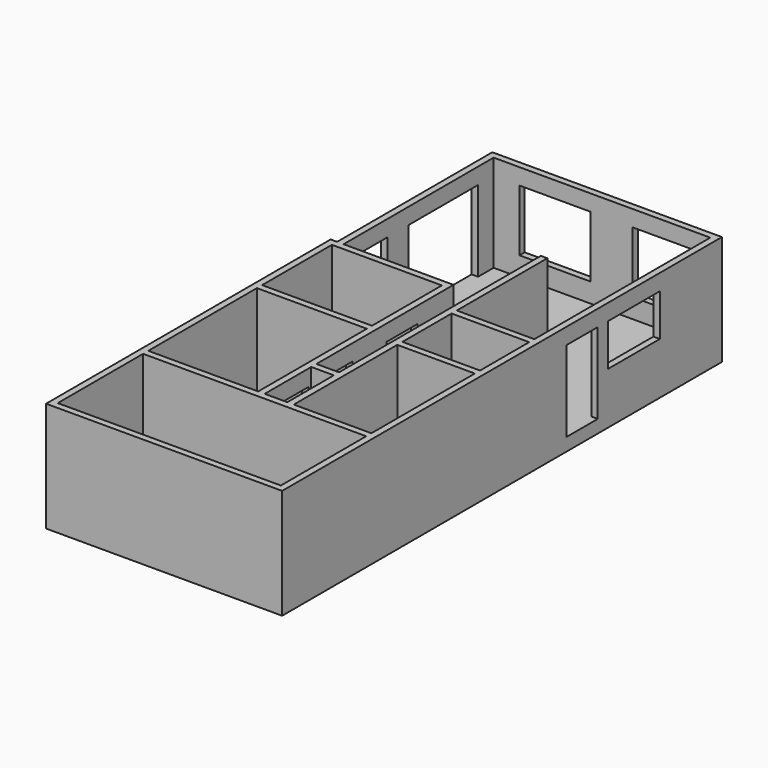
from build123d import *

# Parameters (mm, degrees)
F2_W      = 2
F2_H      = 110
F3_DEPTH  = 4
F4_W      = 2
F4_H      = 33
F4_H_2    = 40
F4_H_3    = 27
F4_H_4    = 19
F4_H_5    = 35
F4_W_2    = 7
F4_H_6    = 2
F5_DEPTH  = 30
F6_W      = 12
F6_H      = 25
F6_W_2    = 27
F7_DEPTH  = 2
F8_W      = 12
F8_H      = 25
F8_W_2    = 20
F8_H_2    = 13
F9_DEPTH  = 2
F10_W     = 22
F10_H     = 19
F11_DEPTH = 2
F12_W     = 12
F12_H     = 25
F12_W_2   = 10.6349699199
F13_DEPTH = 2


with BuildPart() as f3:
    # F2 (on Top) → F3 (new body)
    with BuildSketch(Plane.XY):
        Polygon((57.8188975325, 167.2736013268), (-13.1811024675, 167.2736013268), (-13.1811024675, 107.2736013268), (-13.1811024675, -2.7263986732), (57.8188975325, -2.7263986732), align=None)
        with Locations((-14.1811024675, 52.2736013268)):
            Rectangle(F2_W, F2_H)
    extrude(amount=F3_DEPTH)

    # F4 (on face) → F5 (join)
    with BuildSketch(Plane.XY.offset(4)):
        with Locations((56.8188975325, 15.7736013268)):
            Rectangle(F4_W, F4_H)
        with Locations((56.8188975325, 54.2736013268)):
            Rectangle(F4_W, F4_H_2)
        Polygon((-13.1811024675, 167.2736013268), (-13.1811024675, 107.2736013268), (-11.1811024675, 107.2736013268), (-11.1811024675, 165.2736013268), (-11.1811024675, 167.2736013268), align=None)
        Polygon((-11.1811024675, 167.2736013268), (-11.1811024675, 165.2736013268), (55.8188975325, 165.2736013268), (57.8188975325, 165.2736013268), (57.8188975325, 167.2736013268), align=None)
        Polygon((-15.1811024675, -0.7263986732), (-15.1811024675, -2.7263986732), (57.8188975325, -2.7263986732), (57.8188975325, -0.7263986732), (55.8188975325, -0.7263986732), (27.8188975325, -0.7263986732), (25.8188975325, -0.7263986732), (-13.1811024675, -0.7263986732), align=None)
        Polygon((-11.1811024675, 107.2736013268), (-13.1811024675, 107.2736013268), (-13.1811024675, 105.2736013268), (20.8188975325, 105.2736013268), (22.8188975325, 105.2736013268), (22.8188975325, 107.2736013268), align=None)
        Polygon((55.8188975325, 76.2736013268), (57.8188975325, 76.2736013268), (57.8188975325, 165.2736013268), (55.8188975325, 165.2736013268), (55.8188975325, 97.2736013268), (55.8188975325, 95.2736013268), align=None)
        Polygon((-15.1811024675, 107.2736013268), (-15.1811024675, -0.7263986732), (-13.1811024675, -0.7263986732), (-13.1811024675, 32.2736013268), (-13.1811024675, 34.2736013268), (-13.1811024675, 76.2736013268), (-13.1811024675, 78.2736013268), (-13.1811024675, 105.2736013268), (-13.1811024675, 107.2736013268), align=None)
        Polygon((55.8188975325, 74.2736013268), (57.8188975325, 74.2736013268), (57.8188975325, 76.2736013268), (55.8188975325, 76.2736013268), (31.8188975325, 76.2736013268), (29.8188975325, 76.2736013268), (29.8188975325, 74.2736013268), (31.8188975325, 74.2736013268), align=None)
        Polygon((55.8188975325, 32.2736013268), (57.8188975325, 32.2736013268), (57.8188975325, 34.2736013268), (55.8188975325, 34.2736013268), (31.8188975325, 34.2736013268), (29.8188975325, 34.2736013268), (22.8188975325, 34.2736013268), (20.8188975325, 34.2736013268), (-13.1811024675, 34.2736013268), (-13.1811024675, 32.2736013268), (25.8188975325, 32.2736013268), (27.8188975325, 32.2736013268), align=None)
        with Locations((21.8188975325, 91.7736013268)):
            Rectangle(F4_W, F4_H_3)
        Polygon((20.8188975325, 76.2736013268), (20.8188975325, 34.2736013268), (22.8188975325, 34.2736013268), (22.8188975325, 52.2736013268), (22.8188975325, 54.2736013268), (22.8188975325, 76.2736013268), align=None)
        Polygon((-13.1811024675, 78.2736013268), (-13.1811024675, 76.2736013268), (20.8188975325, 76.2736013268), (22.8188975325, 76.2736013268), (22.8188975325, 78.2736013268), (20.8188975325, 78.2736013268), align=None)
        with Locations((30.8188975325, 85.7736013268)):
            Rectangle(F4_W, F4_H_4)
        Polygon((55.8188975325, 95.2736013268), (55.8188975325, 97.2736013268), (31.8188975325, 97.2736013268), (29.8188975325, 97.2736013268), (29.8188975325, 95.2736013268), (31.8188975325, 95.2736013268), align=None)
        with Locations((30.8188975325, 114.7736013268)):
            Rectangle(F4_W, F4_H_5)
        Polygon((29.8188975325, 34.2736013268), (31.8188975325, 34.2736013268), (31.8188975325, 74.2736013268), (29.8188975325, 74.2736013268), (29.8188975325, 54.2736013268), (29.8188975325, 52.2736013268), align=None)
        with Locations((26.3188975325, 53.2736013268)):
            Rectangle(F4_W_2, F4_H_6)
    extrude(amount=F5_DEPTH)

    # F6 (on face) → F7 (cut)
    with BuildSketch(Plane(origin=(-13.1811024675, 0, 0), x_dir=(0, -1, 0), z_dir=(-1, 0, 0))):
        with Locations((-118.2736013268, 16.5)):
            Rectangle(F6_W, F6_H)
        with Locations((-145.7736013268, 16.5)):
            Rectangle(F6_W_2, F6_H)
    extrude(amount=-F7_DEPTH, mode=Mode.SUBTRACT)

    # F8 (on face) → F9 (cut)
    with BuildSketch(Plane(origin=(55.8188975325, 0, 0), x_dir=(0, -1, 0), z_dir=(-1, 0, 0))):
        with Locations((-113.2736013268, 16.5)):
            Rectangle(F8_W, F8_H)
        with Locations((-133.2736013268, 22.5)):
            Rectangle(F8_W_2, F8_H_2)
    extrude(amount=-F9_DEPTH, mode=Mode.SUBTRACT)

    # F10 (on face) → F11 (cut)
    with BuildSketch(Plane.XZ.offset(-165.2736013268)):
        with Locations((42.8188975325, 19.5)):
            Rectangle(F10_W, F10_H)
        with Locations((7.8188975325, 19.5)):
            Rectangle(F10_W, F10_H)
    extrude(amount=-F11_DEPTH, mode=Mode.SUBTRACT)

    # F12 (on face) → F13 (cut)
    with BuildSketch(Plane(origin=(20.8188975325, 0, 0), x_dir=(0, -1, 0), z_dir=(-1, 0, 0))):
        with Locations((-87.2736013268, 16.5)):
            Rectangle(F12_W, F12_H)
        with Locations((-62.9561163669, 16.5)):
            Rectangle(F12_W_2, F12_H)
        with Locations((-45.2736013268, 16.5)):
            Rectangle(F12_W, F12_H)
    extrude(amount=-F13_DEPTH, mode=Mode.SUBTRACT)


solid = f3.part
